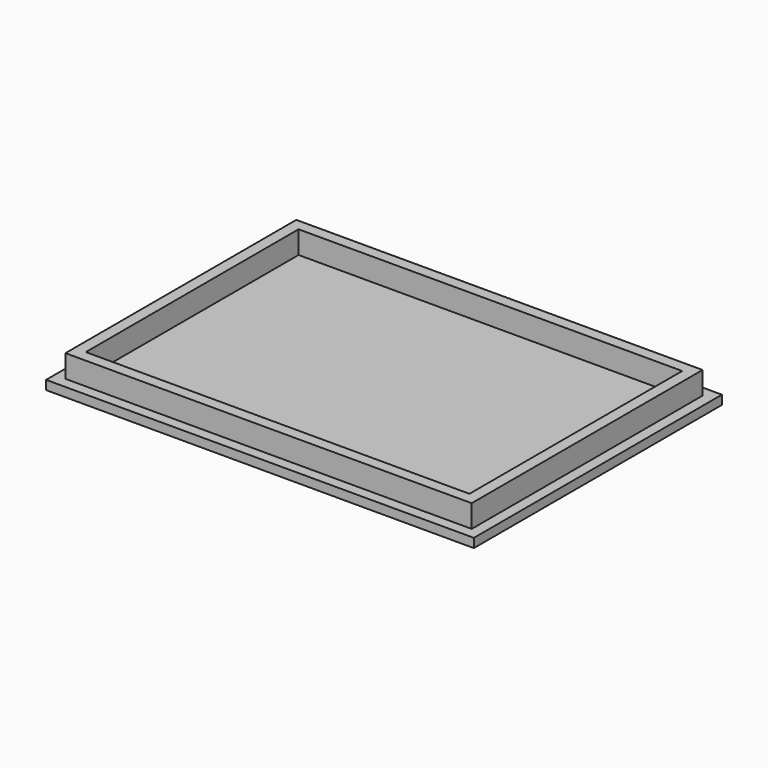
from build123d import *

# Parameters (mm, degrees)
SKETCH_W      = 94.5
SKETCH_H      = 68.5
PAD_DEPTH     = 2
SKETCH001_W   = 89.75
SKETCH001_H   = 63.75
SKETCH001_W_2 = 84.75
SKETCH001_H_2 = 58.75
PAD001_DEPTH  = 5


with BuildPart() as part:
    # Sketch → Pad (new body)
    with BuildSketch(Plane.XY):
        Rectangle(SKETCH_W, SKETCH_H)
    extrude(amount=PAD_DEPTH)

    # Sketch001 (on Face6 of Pad) → Pad001 (join)
    with BuildSketch(Plane.XY.offset(2)):
        Rectangle(SKETCH001_W, SKETCH001_H)
        Rectangle(SKETCH001_W_2, SKETCH001_H_2, mode=Mode.SUBTRACT)
    extrude(amount=PAD001_DEPTH)


solid = part.part
